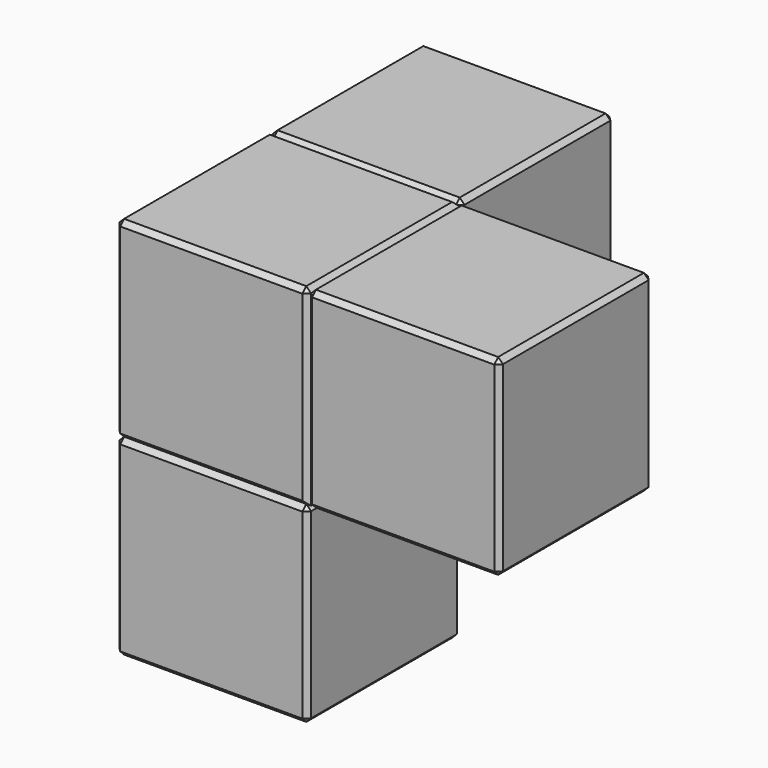
from build123d import *

# Parameters (mm, degrees)
F0_W      = 25.4
F0_H      = 25.4
F1_DEPTH  = 25.4
F2_DEPTH  = 25.4
F3_DEPTH  = 25.4
F4_DEPTH  = 25.4
F5_SIZE   = 0.635
F5_2_SIZE = 0.635
F5_3_SIZE = 0.635
F5_4_SIZE = 0.635


with BuildPart() as f1:
    # F0 (on Top) → F1 (new body)
    with BuildSketch(Plane.XY):
        with Locations((25.4, 0)):
            Rectangle(F0_W, F0_H)
    extrude(amount=F1_DEPTH)

    # F5
    f5_edges = [f1.edges().sort_by_distance(p)[0] for p in [
        (25.4, 12.7, 0),
        (12.7, 0, 0),
        (25.4, -12.7, 0),
        (38.1, 0, 0),
        (12.7, -12.7, 12.7),
        (38.1, -12.7, 12.7),
        (25.4, -12.7, 25.4),
        (25.4, 12.7, 25.4),
        (12.7, 0, 25.4),
        (38.1, 0, 25.4),
        (12.7, 12.7, 12.7),
        (38.1, 12.7, 12.7),
    ]]
    chamfer(f5_edges, length=F5_SIZE)


with BuildPart() as f2:
    # F0 (on Top) → F2 (new body)
    with BuildSketch(Plane.XY):
        Rectangle(F0_W, F0_H)
    extrude(amount=F2_DEPTH)

    # F5#3
    f5_3_edges = [f2.edges().sort_by_distance(p)[0] for p in [
        (12.7, -12.7, 12.7),
        (-12.7, -12.7, 12.7),
        (0, -12.7, 0),
        (0, -12.7, 25.4),
        (12.7, 0, 25.4),
        (0, 12.7, 25.4),
        (-12.7, 0, 25.4),
        (-12.7, 12.7, 12.7),
        (-12.7, 0, 0),
    ]]
    chamfer(f5_3_edges, length=F5_3_SIZE)


with BuildPart() as f3:
    # F0 (on Top) → F3 (new body)
    with BuildSketch(Plane.XY):
        with Locations((0, 25.4)):
            Rectangle(F0_W, F0_H)
    extrude(amount=F3_DEPTH)

    # F5#4
    f5_4_edges = [f3.edges().sort_by_distance(p)[0] for p in [
        (0, 12.7, 25.4),
        (-12.7, 25.4, 25.4),
        (12.7, 25.4, 25.4),
        (0, 38.1, 25.4),
        (12.7, 12.7, 12.7),
        (12.7, 38.1, 12.7),
        (12.7, 25.4, 0),
        (0, 12.7, 0),
        (-12.7, 25.4, 0),
        (0, 38.1, 0),
        (-12.7, 38.1, 12.7),
        (-12.7, 12.7, 12.7),
    ]]
    chamfer(f5_4_edges, length=F5_4_SIZE)


with BuildPart() as f4:
    # F0 (on Top) → F4 (new body)
    with BuildSketch(Plane.XY):
        Rectangle(F0_W, F0_H)
    extrude(amount=-F4_DEPTH)

    # F5#2
    f5_2_edges = [f4.edges().sort_by_distance(p)[0] for p in [
        (12.7, 0, 0),
        (0, -12.7, 0),
        (-12.7, -12.7, -12.7),
        (12.7, -12.7, -12.7),
        (0, -12.7, -25.4),
        (12.7, 12.7, -12.7),
        (12.7, 0, -25.4),
        (-12.7, 12.7, -12.7),
        (0, 12.7, 0),
        (0, 12.7, -25.4),
        (-12.7, 0, 0),
        (-12.7, 0, -25.4),
    ]]
    chamfer(f5_2_edges, length=F5_2_SIZE)


solid = Compound([f1.part, f2.part, f3.part, f4.part])
